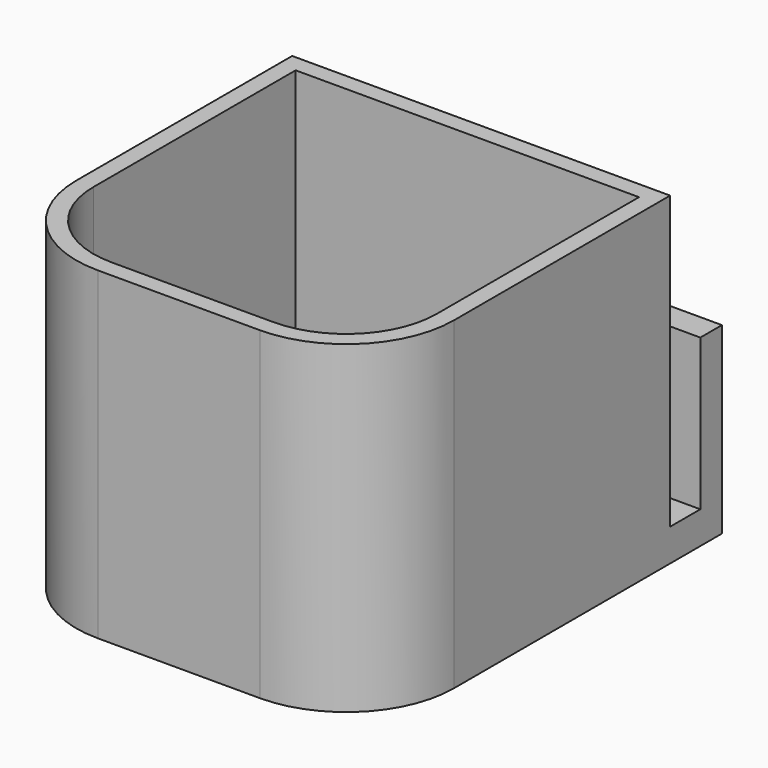
from build123d import *

# Parameters (mm, degrees)
F1_DEPTH = 30
F2_T     = -1.6
F0_W     = 35
F0_H     = 3.5
F3_DEPTH = 3
F0_H_2   = 2.5
F4_DEPTH = 17
F5_DEPTH = 5


with BuildPart() as f1:
    # F0 (on Top) → F1 (new body)
    with BuildSketch(Plane.XY):
        with BuildLine():
            Line((35, -6), (0, -6))
            Line((0, -6), (0, -31))
            ThreePointArc((0, -31), (2.9289321881, -38.0710678119), (10, -41))
            Line((10, -41), (25, -41))
            ThreePointArc((25, -41), (32.0710678119, -38.0710678119), (35, -31))
            Line((35, -31), (35, -6))
        make_face()
    extrude(amount=F1_DEPTH)

    # F2
    f2_openings = [f1.faces().sort_by_distance(p)[0] for p in [
        (17.5, -22.945692, 30),
    ]]
    offset(amount=F2_T, openings=f2_openings)

    # F0 (on Top) → F3 (join)
    with BuildSketch(Plane.XY):
        with Locations((17.5, -4.25)):
            Rectangle(F0_W, F0_H)
    extrude(amount=F3_DEPTH)

    # F0 (on Top) → F4 (join)
    with BuildSketch(Plane.XY):
        with Locations((17.5, -1.25)):
            Rectangle(F0_W, F0_H_2)
    extrude(amount=F4_DEPTH)

    # F5 (cut): a face of the model
    f5_faces = [f1.faces().sort_by_distance(p)[0] for p in [
        (17.5, -23.0670520916, 1.6),
    ]]
    extrude(f5_faces, amount=-F5_DEPTH, mode=Mode.SUBTRACT)


solid = f1.part
